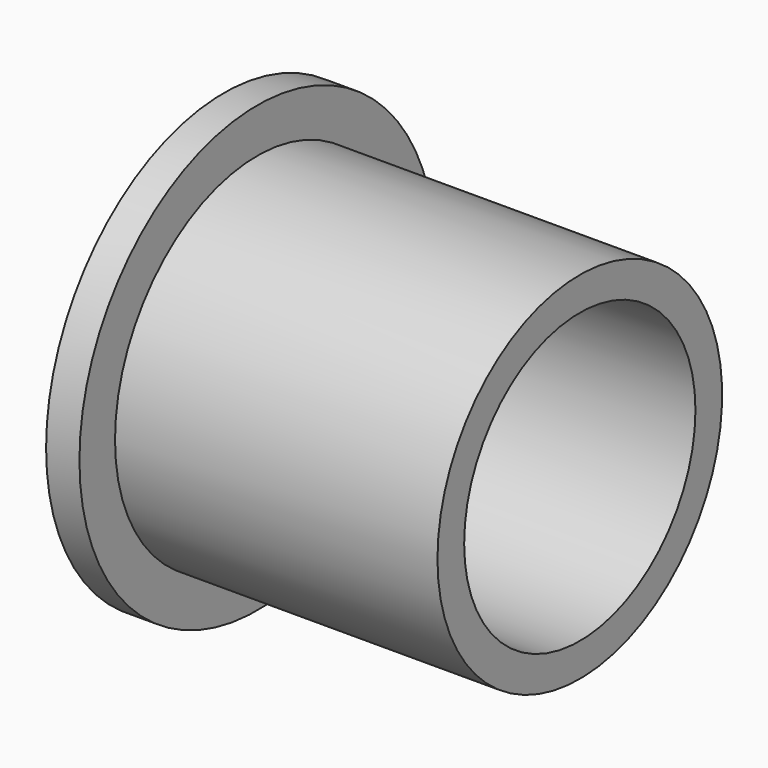
from build123d import *

# Parameters (mm, degrees)
F0_R     = 31.75
F1_DEPTH = 4.7625
F2_R     = 25.4
F3_DEPTH = 50.8
F5_D     = 41.275


with BuildPart() as f1:
    # F0 (on Right) → F1 (new body)
    with BuildSketch(Plane.YZ):
        Circle(F0_R)
    extrude(amount=F1_DEPTH)

    # F2 (on face) → F3 (join)
    with BuildSketch(Plane(origin=(0, 0, 0), x_dir=(0, -1, 0), z_dir=(-1, 0, 0))):
        Circle(F2_R)
    extrude(amount=-F3_DEPTH)

    # F5 (through all)
    with Locations(Plane.YZ.offset(50.8)):
        with Locations((0, 0)):
            Hole(F5_D / 2)


solid = f1.part
